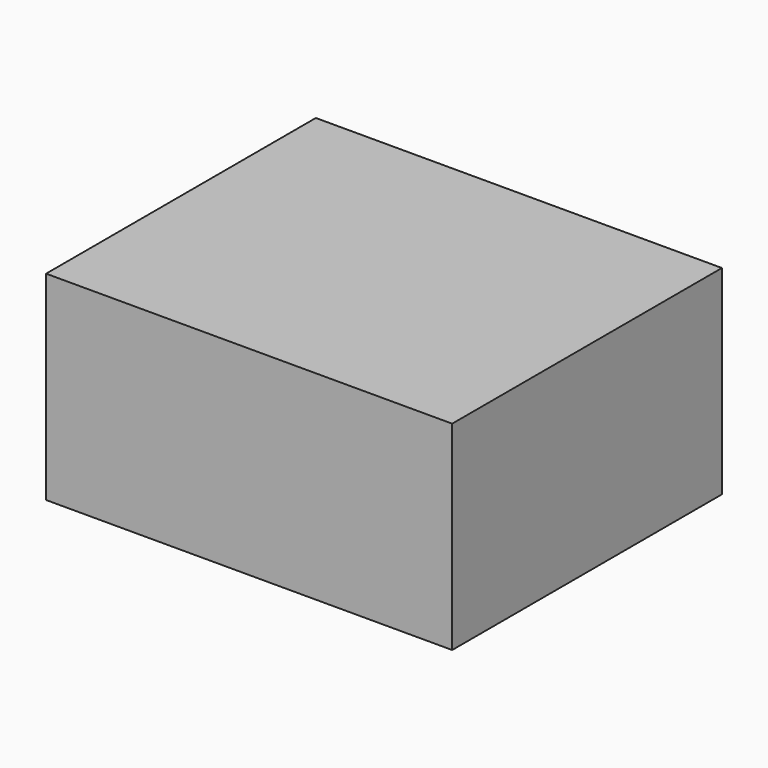
from build123d import *

# Parameters (mm, degrees)
F0_W     = 40.35
F0_H     = 19.8
F1_DEPTH = 33.5
F2_R     = 5.3
F3_DEPTH = 4.5


with BuildPart() as f1:
    # F0 (on Front) → F1 (new body)
    with BuildSketch(Plane.XZ):
        Rectangle(F0_W, F0_H)
    extrude(amount=F1_DEPTH)

    # F2 (on face) → F3 (join)
    with BuildSketch(Plane(origin=(0, 0, 0), x_dir=(-1, 0, 0), z_dir=(0, 1, 0))):
        with Locations((9.1, 0)):
            Circle(F2_R)
    extrude(amount=F3_DEPTH)


solid = f1.part
